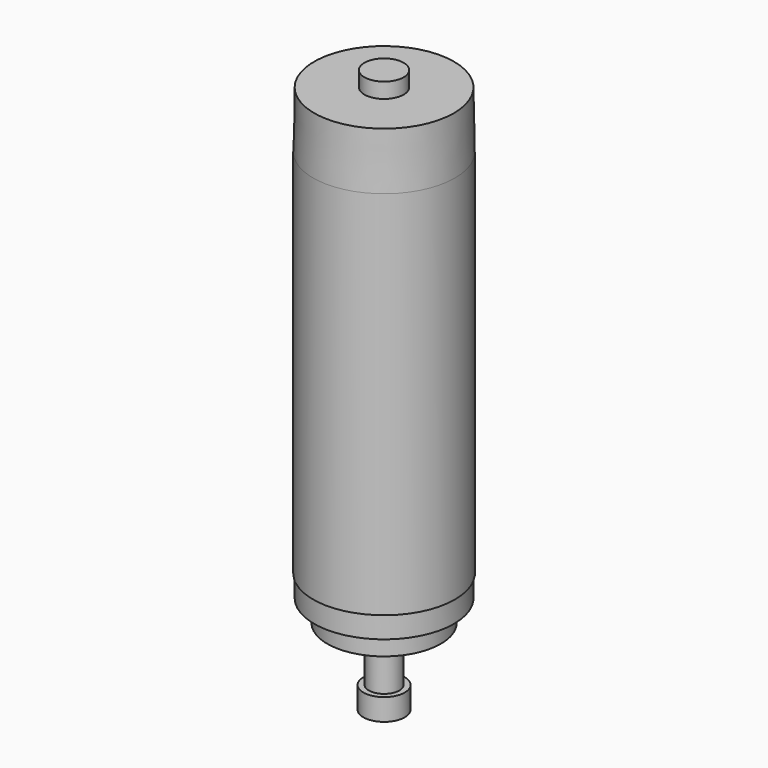
from build123d import *

# Parameters (mm, degrees)
F0_R      = 32.5
F1_DEPTH  = 196
F2_SIZE2  = 0.5
F2_SIZE   = 26
F3_R      = 32
F4_DEPTH  = 10
F5_R      = 26
F6_DEPTH  = 10
F7_R      = 7
F8_DEPTH  = 25
F9_R      = 9.5
F10_DEPTH = 10
F11_R     = 9
F12_DEPTH = 7


with BuildPart() as f1:
    # F0 (on Top) → F1 (new body)
    with BuildSketch(Plane.XY):
        Circle(F0_R)
    extrude(amount=F1_DEPTH)

    # F2
    f2_edges = [f1.edges().sort_by_distance(p)[0] for p in [
        (-32.5, 0, 196),
    ]]
    chamfer(f2_edges, length=F2_SIZE, length2=F2_SIZE2)

    # F3 (on face) → F4 (join)
    with BuildSketch(Plane(origin=(0, 0, 0), x_dir=(1, 0, 0), z_dir=(0, 0, -1))):
        Circle(F3_R)
    extrude(amount=F4_DEPTH)

    # F5 (on face) → F6 (join)
    with BuildSketch(Plane(origin=(0, 0, -10), x_dir=(1, 0, 0), z_dir=(0, 0, -1))):
        Circle(F5_R)
    extrude(amount=F6_DEPTH)

    # F7 (on face) → F8 (join)
    with BuildSketch(Plane(origin=(0, 0, -20), x_dir=(1, 0, 0), z_dir=(0, 0, -1))):
        Circle(F7_R)
    extrude(amount=F8_DEPTH)

    # F9 (on face) → F10 (join)
    with BuildSketch(Plane(origin=(0, 0, -45), x_dir=(1, 0, 0), z_dir=(0, 0, -1))):
        Circle(F9_R)
    extrude(amount=F10_DEPTH)

    # F11 (on face) → F12 (join)
    with BuildSketch(Plane.XY.offset(196)):
        Circle(F11_R)
    extrude(amount=F12_DEPTH)


solid = f1.part
